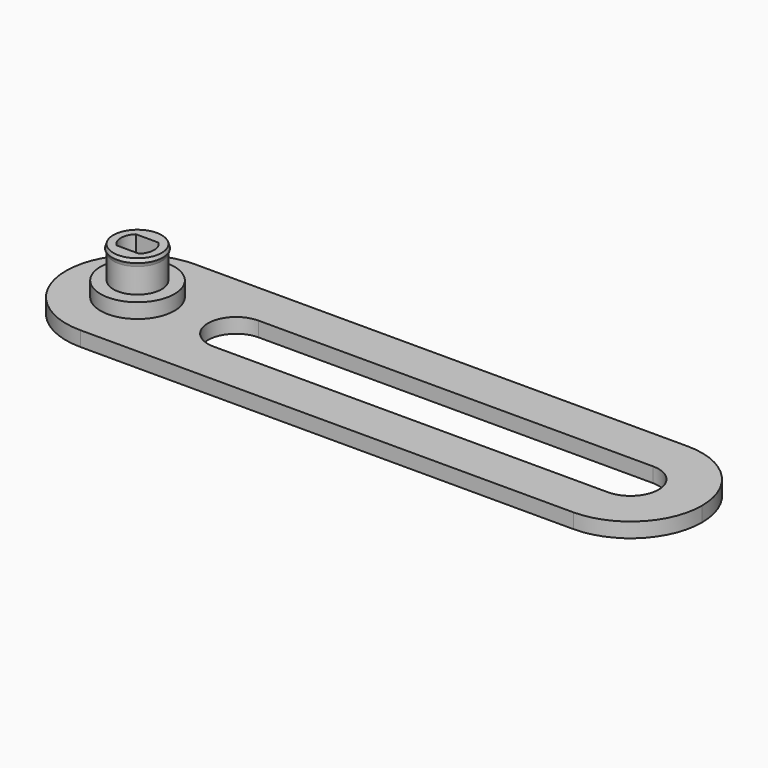
from build123d import *

# Parameters (mm, degrees)
F4_R      = 7.5
F4_R_2    = 5.5
F5_DEPTH  = 3
F6_DEPTH  = 5
F7_R      = 9.5
F7_R_2    = 7.5
F7_R_3    = 4.9
F8_DEPTH  = 3
F9_DEPTH  = 6
F10_DEPTH = 12.5


with BuildPart() as f5:
    # F4 (on Top) → F5 (new body)
    with BuildSketch(Plane.XY):
        with BuildLine():
            Line((100, 14.5), (0, 14.5))
            ThreePointArc((0, 14.5), (-10.2530483272, 10.2530483272), (-14.5, 0))
            ThreePointArc((-14.5, 0), (-10.2530483272, -10.2530483272), (0, -14.5))
            Line((0, -14.5), (100, -14.5))
            ThreePointArc((100, -14.5), (110.2530483272, -10.2530483272), (114.5, 0))
            ThreePointArc((114.5, 0), (110.2530483272, 10.2530483272), (100, 14.5))
        make_face()
        Circle(F4_R, mode=Mode.SUBTRACT)
        with BuildLine():
            ThreePointArc((20, -5.7), (14.3, 0), (20, 5.7))
            Line((20, 5.7), (100, 5.7))
            ThreePointArc((100, 5.7), (105.7, 0), (100, -5.7))
            Line((100, -5.7), (20, -5.7))
        make_face(mode=Mode.SUBTRACT)
        Circle(F4_R)
        Circle(F4_R_2, mode=Mode.SUBTRACT)
    extrude(amount=F5_DEPTH)

    # F4 (on Top) → F6 (join)
    with BuildSketch(Plane.XY):
        Circle(F4_R)
        Circle(F4_R_2, mode=Mode.SUBTRACT)
    extrude(amount=F6_DEPTH)



with BuildPart() as f8:
    # F7 (on Top) → F8 (new body)
    with BuildSketch(Plane.XY):
        Circle(F7_R)
        Circle(F7_R_2, mode=Mode.SUBTRACT)
        Circle(F7_R_2)
        Circle(F7_R_3, mode=Mode.SUBTRACT)
        Circle(F7_R_3)
        with BuildLine():
            ThreePointArc((-2.2847319318, -2.45), (-3.35, 0), (-2.2847319318, 2.45))
            Line((-2.2847319318, 2.45), (2.2847319318, 2.45))
            ThreePointArc((2.2847319318, 2.45), (3.35, 0), (2.2847319318, -2.45))
            Line((2.2847319318, -2.45), (-2.2847319318, -2.45))
        make_face(mode=Mode.SUBTRACT)
    extrude(amount=F8_DEPTH)


with BuildPart() as f5_1:
    add(f5.part)

    add(f8.part)  # F9 merges F8
    # F7 (on Top) → F9 (join)
    with BuildSketch(Plane.XY):
        Circle(F7_R_2)
        Circle(F7_R_3, mode=Mode.SUBTRACT)
        Circle(F7_R_3)
        with BuildLine():
            ThreePointArc((-2.2847319318, -2.45), (-3.35, 0), (-2.2847319318, 2.45))
            Line((-2.2847319318, 2.45), (2.2847319318, 2.45))
            ThreePointArc((2.2847319318, 2.45), (3.35, 0), (2.2847319318, -2.45))
            Line((2.2847319318, -2.45), (-2.2847319318, -2.45))
        make_face(mode=Mode.SUBTRACT)
    extrude(amount=F9_DEPTH)

    # F7 (on Top) → F10 (join)
    with BuildSketch(Plane.XY):
        Circle(F7_R_3)
        with BuildLine():
            ThreePointArc((-2.2847319318, -2.45), (-3.35, 0), (-2.2847319318, 2.45))
            Line((-2.2847319318, 2.45), (2.2847319318, 2.45))
            ThreePointArc((2.2847319318, 2.45), (3.35, 0), (2.2847319318, -2.45))
            Line((2.2847319318, -2.45), (-2.2847319318, -2.45))
        make_face(mode=Mode.SUBTRACT)
    extrude(amount=F10_DEPTH)

    # F11 (on Front) → F12 (revolve)
    with BuildSketch(Plane.XZ):
        Polygon((5.15, 11.75), (4.9, 12.5), (4.9, 11), align=None)
    revolve(axis=Axis((0, 0, 8.631802164), (0, 0, 1)))


solid = f5_1.part
